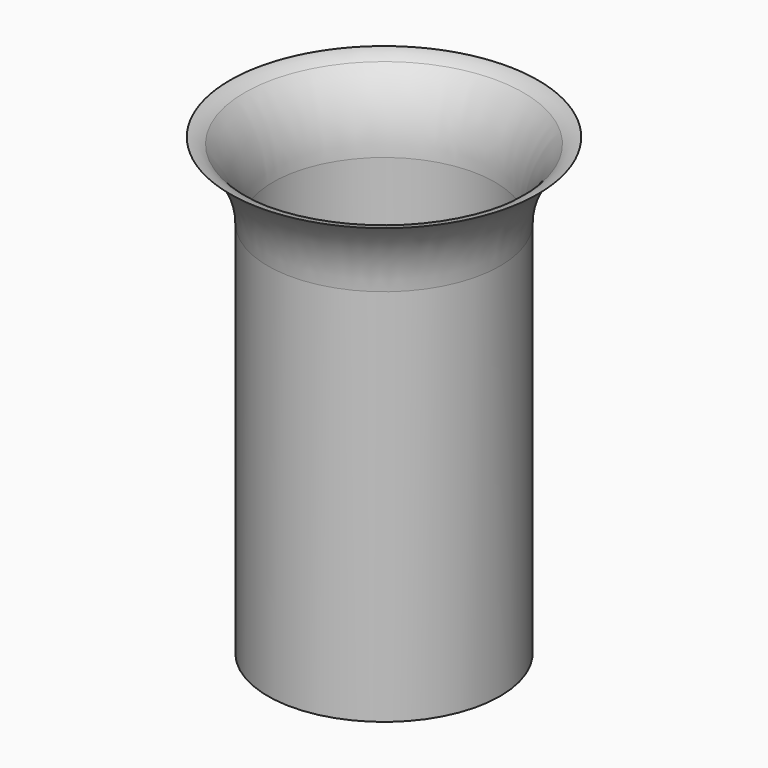
from build123d import *

# Parameters (mm, degrees)
F2_T = -2
F3_R = 8


with BuildPart() as f1:
    # F0 (on Front) → F1 (revolve)
    with BuildSketch(Plane.XZ):
        with BuildLine():
            Line((0, 180), (0, 0))
            Line((0, 0), (46, 0))
            Line((46, 0), (46, 150))
            ThreePointArc((46, 150), (49.9589803375, 166.7705098312), (61, 180))
            Line((61, 180), (0, 180))
        make_face()
    revolve(axis=Axis((0, 0, 90), (0, 0, 1)))

    # F2
    f2_openings = [f1.faces().sort_by_distance(p)[0] for p in [
        (0, 0, 180),
        (0, 0, 0),
    ]]
    offset(amount=F2_T, openings=f2_openings)

    # F3
    f3_edges = [f1.edges().sort_by_distance(p)[0] for p in [
        (-57.80467, 0, 180),
    ]]
    fillet(f3_edges, radius=F3_R)


solid = f1.part
